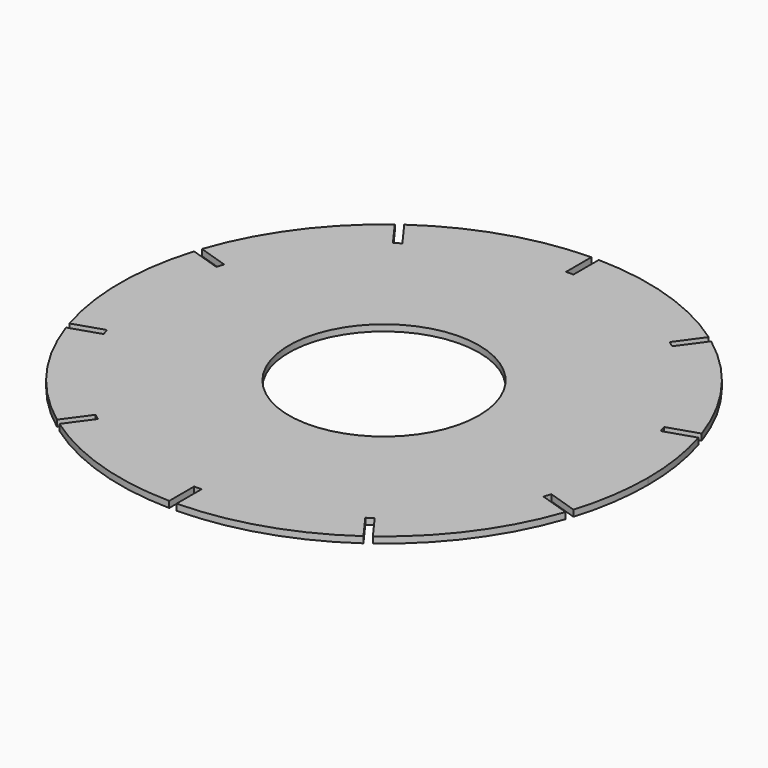
from build123d import *

# Parameters (mm, degrees)
F0_R     = 45
F1_DEPTH = 3
F2_DEPTH = 3


with BuildPart() as f1:
    # F0 (on Top) → F1 (new body)
    with BuildSketch(Plane.XY):
        with BuildLine():
            ThreePointArc((119.378804, -36.948466), (123.586711, -18.62865), (125, 0.115008))
            ThreePointArc((125, 0.115008), (123.603067, 18.750507), (119.443491, 36.969484))
            Line((119.443491, 36.969484), (105.266376, 32.36306))
            Line((105.266376, 32.36306), (104.184816, 35.691758))
            Line((104.184816, 35.691758), (118.364845, 40.299128))
            ThreePointArc((118.364845, 40.299128), (101.179117, 73.51655), (74.935858, 100.163083))
            Line((74.935858, 100.163083), (66.139758, 88.056289))
            Line((66.139758, 88.056289), (63.308198, 90.113537))
            Line((63.308198, 90.113537), (72.105411, 102.221862))
            ThreePointArc((72.105411, 102.221862), (38.659272, 118.986623), (1.75, 125.102758))
            Line((1.75, 125.102758), (1.75, 110.115008))
            Line((1.75, 110.115008), (-1.75, 110.115008))
            Line((-1.75, 110.115008), (-1.75, 125.102758))
            ThreePointArc((-1.75, 125.102758), (-38.659272, 118.986623), (-72.105411, 102.221862))
            Line((-72.105411, 102.221862), (-63.308198, 90.113537))
            Line((-63.308198, 90.113537), (-66.139758, 88.056289))
            Line((-66.139758, 88.056289), (-74.935858, 100.163083))
            ThreePointArc((-74.935858, 100.163083), (-101.179117, 73.51655), (-118.364845, 40.299128))
            Line((-118.364845, 40.299128), (-104.184816, 35.691758))
            Line((-104.184816, 35.691758), (-105.266376, 32.36306))
            Line((-105.266376, 32.36306), (-119.443491, 36.969484))
            ThreePointArc((-119.443491, 36.969484), (-124.999952, 0.005618), (-119.378804, -36.948466))
            Line((-119.378804, -36.948466), (-105.266376, -32.36306))
            Line((-105.266376, -32.36306), (-104.184816, -35.691758))
            Line((-104.184816, -35.691758), (-118.294332, -40.276217))
            ThreePointArc((-118.294332, -40.276217), (-101.075081, -73.429727), (-74.827591, -100.014066))
            Line((-74.827591, -100.014066), (-66.139758, -88.056289))
            Line((-66.139758, -88.056289), (-63.308198, -90.113537))
            Line((-63.308198, -90.113537), (-71.994919, -102.069783))
            ThreePointArc((-71.994919, -102.069783), (-38.594974, -118.777498), (-1.75, -124.872741))
            Line((-1.75, -124.872741), (-1.75, -110.115008))
            Line((-1.75, -110.115008), (1.75, -110.115008))
            Line((1.75, -110.115008), (1.75, -124.872741))
            ThreePointArc((1.75, -124.872741), (38.594974, -118.777498), (71.994919, -102.069783))
            Line((71.994919, -102.069783), (63.308198, -90.113537))
            Line((63.308198, -90.113537), (66.139758, -88.056289))
            Line((66.139758, -88.056289), (74.827591, -100.014066))
            ThreePointArc((74.827591, -100.014066), (101.075081, -73.429727), (118.294332, -40.276217))
            Line((118.294332, -40.276217), (104.184816, -35.691758))
            Line((104.184816, -35.691758), (105.266376, -32.36306))
            Line((105.266376, -32.36306), (119.378804, -36.948466))
        make_face()
        with Locations((0, 0.115008)):
            Circle(F0_R, mode=Mode.SUBTRACT)
    extrude(amount=F1_DEPTH)

    # F0 (on Top) → F2 (join)
    with BuildSketch(Plane.XY):
        with BuildLine():
            ThreePointArc((119.378804, -36.948466), (123.586711, -18.62865), (125, 0.115008))
            ThreePointArc((125, 0.115008), (123.603067, 18.750507), (119.443491, 36.969484))
            Line((119.443491, 36.969484), (105.266376, 32.36306))
            Line((105.266376, 32.36306), (104.184816, 35.691758))
            Line((104.184816, 35.691758), (118.364845, 40.299128))
            ThreePointArc((118.364845, 40.299128), (101.179117, 73.51655), (74.935858, 100.163083))
            Line((74.935858, 100.163083), (66.139758, 88.056289))
            Line((66.139758, 88.056289), (63.308198, 90.113537))
            Line((63.308198, 90.113537), (72.105411, 102.221862))
            ThreePointArc((72.105411, 102.221862), (38.659272, 118.986623), (1.75, 125.102758))
            Line((1.75, 125.102758), (1.75, 110.115008))
            Line((1.75, 110.115008), (-1.75, 110.115008))
            Line((-1.75, 110.115008), (-1.75, 125.102758))
            ThreePointArc((-1.75, 125.102758), (-38.659272, 118.986623), (-72.105411, 102.221862))
            Line((-72.105411, 102.221862), (-63.308198, 90.113537))
            Line((-63.308198, 90.113537), (-66.139758, 88.056289))
            Line((-66.139758, 88.056289), (-74.935858, 100.163083))
            ThreePointArc((-74.935858, 100.163083), (-101.179117, 73.51655), (-118.364845, 40.299128))
            Line((-118.364845, 40.299128), (-104.184816, 35.691758))
            Line((-104.184816, 35.691758), (-105.266376, 32.36306))
            Line((-105.266376, 32.36306), (-119.443491, 36.969484))
            ThreePointArc((-119.443491, 36.969484), (-124.999952, 0.005618), (-119.378804, -36.948466))
            Line((-119.378804, -36.948466), (-105.266376, -32.36306))
            Line((-105.266376, -32.36306), (-104.184816, -35.691758))
            Line((-104.184816, -35.691758), (-118.294332, -40.276217))
            ThreePointArc((-118.294332, -40.276217), (-101.075081, -73.429727), (-74.827591, -100.014066))
            Line((-74.827591, -100.014066), (-66.139758, -88.056289))
            Line((-66.139758, -88.056289), (-63.308198, -90.113537))
            Line((-63.308198, -90.113537), (-71.994919, -102.069783))
            ThreePointArc((-71.994919, -102.069783), (-38.594974, -118.777498), (-1.75, -124.872741))
            Line((-1.75, -124.872741), (-1.75, -110.115008))
            Line((-1.75, -110.115008), (1.75, -110.115008))
            Line((1.75, -110.115008), (1.75, -124.872741))
            ThreePointArc((1.75, -124.872741), (38.594974, -118.777498), (71.994919, -102.069783))
            Line((71.994919, -102.069783), (63.308198, -90.113537))
            Line((63.308198, -90.113537), (66.139758, -88.056289))
            Line((66.139758, -88.056289), (74.827591, -100.014066))
            ThreePointArc((74.827591, -100.014066), (101.075081, -73.429727), (118.294332, -40.276217))
            Line((118.294332, -40.276217), (104.184816, -35.691758))
            Line((104.184816, -35.691758), (105.266376, -32.36306))
            Line((105.266376, -32.36306), (119.378804, -36.948466))
        make_face()
        with Locations((0, 0.115008)):
            Circle(F0_R, mode=Mode.SUBTRACT)
    extrude(amount=F2_DEPTH)


solid = f1.part
